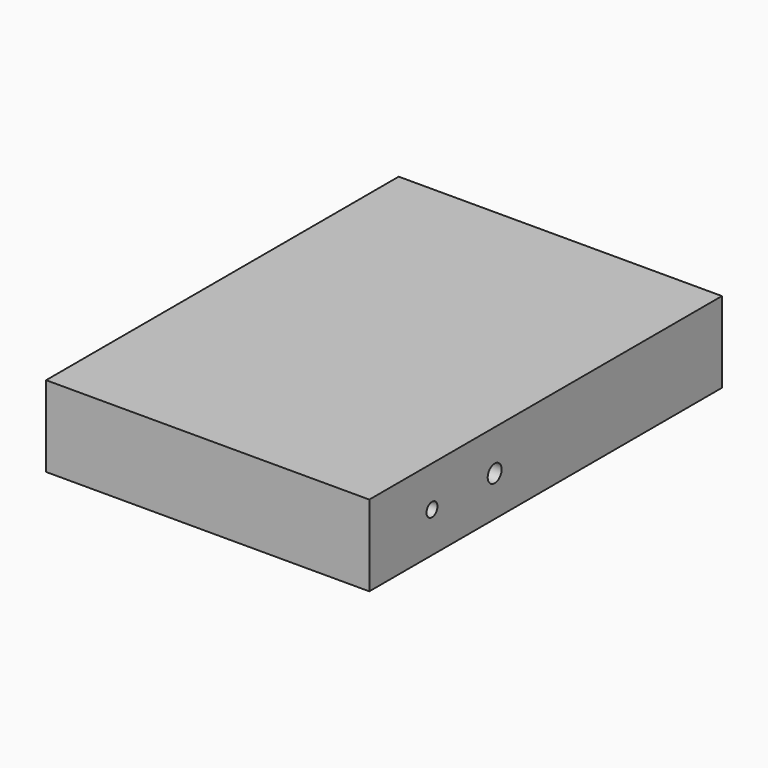
from build123d import *

# Parameters (mm, degrees)
F1_DEPTH = 5.23875
F2_R     = 0.508
F3_DEPTH = 3.429
F5_D     = 1.778
F5_DEPTH = 3.302
F5_TIP   = 0.5341650903
F7_D     = 2.2606
F7_DEPTH = 3.429
F7_TIP   = 0.6791527577


with BuildPart() as f1:
    # F0 (on Top) → F1 (new body, symmetric)
    with BuildSketch(Plane.XY):
        Polygon((20.955, 28.575), (-20.955, -28.575), (20.955, -28.575), align=None)
        Polygon((-20.955, 28.575), (-20.955, -28.575), (20.955, 28.575), align=None)
    extrude(amount=F1_DEPTH, both=True)

    # F2 (on face) → F3 (cut)
    with BuildSketch(Plane(origin=(0, 28.575, 0), x_dir=(-1, 0, 0), z_dir=(0, 1, 0))):
        with Locations((-9.525, -1.75895)):
            Circle(F2_R)
        with Locations((9.525, -1.75895)):
            Circle(F2_R)
    extrude(amount=-F3_DEPTH, mode=Mode.SUBTRACT)

    # F5
    with Locations(Plane.YZ.offset(20.955)):
        with Locations((-18.415, -0.03175)):
            Hole(F5_D / 2, depth=F5_DEPTH)
            with Locations((0, 0, -(F5_DEPTH + F5_TIP / 2))):  # 118° drill point
                Cone(0, F5_D / 2, F5_TIP, mode=Mode.SUBTRACT)

    # F7
    with Locations(Plane.YZ.offset(20.955)):
        with Locations((-8.255, -0.03175)):
            Hole(F7_D / 2, depth=F7_DEPTH)
            with Locations((0, 0, -(F7_DEPTH + F7_TIP / 2))):  # 118° drill point
                Cone(0, F7_D / 2, F7_TIP, mode=Mode.SUBTRACT)


solid = f1.part
